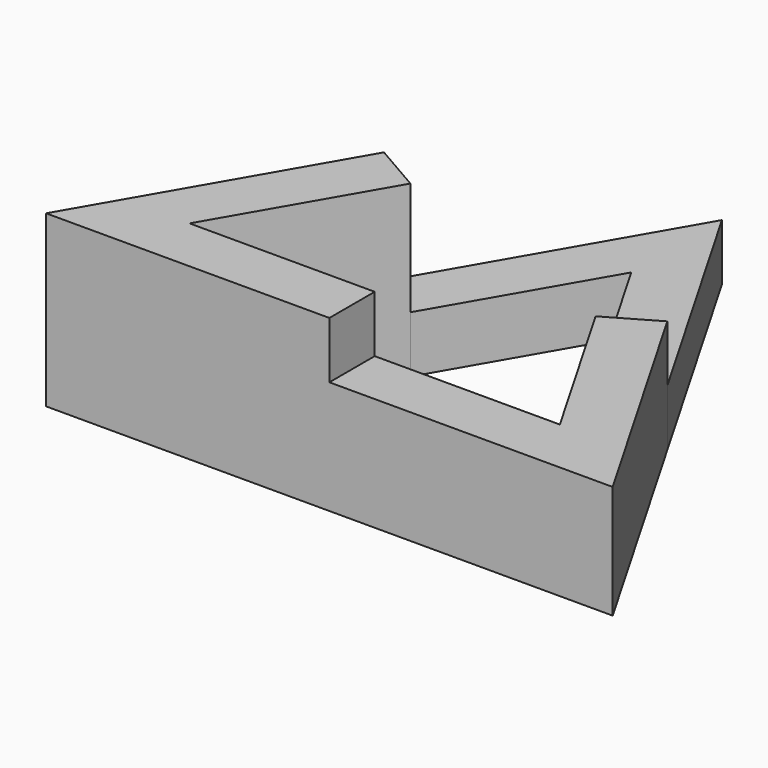
from build123d import *

# Parameters (mm, degrees)
F1_DEPTH = 2.54
F2_DEPTH = 5.08
F3_DEPTH = 7.62


with BuildPart() as f1:
    # F0 (on Top) → F1 (new body)
    with BuildSketch(Plane.XY):
        Polygon((-24.428534, 7.051245), (-30.778534, -3.947278), (-28.57883, -5.217278), (-24.428534, 1.971245), (-20.278239, -5.217278), (-18.078534, -3.947278), align=None)
    extrude(amount=F1_DEPTH)

    # F0 (on Top) → F2 (join)
    with BuildSketch(Plane.XY):
        Polygon((-24.428534, -12.4058), (-24.428534, -14.9458), (-11.728534, -14.9458), (-18.078534, -3.947278), (-20.278239, -5.217278), (-16.127943, -12.4058), align=None)
    extrude(amount=F2_DEPTH)

    # F0 (on Top) → F3 (join)
    with BuildSketch(Plane.XY):
        Polygon((-30.778534, -3.947278), (-37.128534, -14.9458), (-24.428534, -14.9458), (-24.428534, -12.4058), (-32.729125, -12.4058), (-28.57883, -5.217278), align=None)
    extrude(amount=F3_DEPTH)


solid = f1.part
